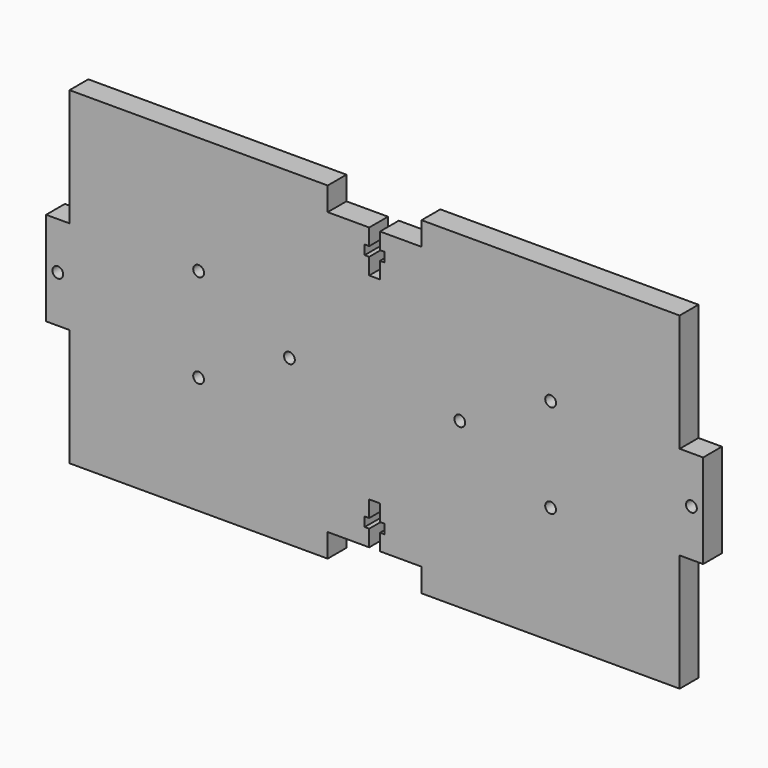
from build123d import *

# Parameters (mm, degrees)
F0_R     = 1.4605
F1_DEPTH = 6.35


with BuildPart() as f1:
    # F0 (on Front) → F1 (new body)
    with BuildSketch(Plane.XZ):
        Polygon((82.55, 12.7), (82.55, 44.45), (12.7, 44.45), (12.7, 38.1), (1.4605, 38.1), (1.4605, 33.655), (2.69367, 33.655), (2.69367, 31.115), (1.4605, 31.115), (1.4605, 26.67), (-1.4605, 26.67), (-1.4605, 31.115), (-2.69367, 31.115), (-2.69367, 33.655), (-1.4605, 33.655), (-1.4605, 38.1), (-12.7, 38.1), (-12.7, 44.45), (-82.55, 44.45), (-82.55, 12.7), (-88.9, 12.7), (-88.9, -12.7), (-82.55, -12.7), (-82.55, -44.45), (-12.7, -44.45), (-12.7, -38.1), (-1.4605, -38.1), (-1.4605, -33.655), (-2.69367, -33.655), (-2.69367, -31.115), (-1.4605, -31.115), (-1.4605, -26.67), (1.4605, -26.67), (1.4605, -31.115), (2.69367, -31.115), (2.69367, -33.655), (1.4605, -33.655), (1.4605, -38.1), (12.7, -38.1), (12.7, -44.45), (82.55, -44.45), (82.55, -12.7), (88.9, -12.7), (88.9, 12.7), align=None)
        with Locations((-47.625, -12.7)):
            Circle(F0_R, mode=Mode.SUBTRACT)
        with Locations((47.625, -12.7)):
            Circle(F0_R, mode=Mode.SUBTRACT)
        with Locations((-85.725, 0)):
            Circle(F0_R, mode=Mode.SUBTRACT)
        with Locations((-47.625, 12.7)):
            Circle(F0_R, mode=Mode.SUBTRACT)
        with Locations((-23.0505, 0)):
            Circle(F0_R, mode=Mode.SUBTRACT)
        with Locations((23.0505, 0)):
            Circle(F0_R, mode=Mode.SUBTRACT)
        with Locations((85.725, 0)):
            Circle(F0_R, mode=Mode.SUBTRACT)
        with Locations((47.625, 12.7)):
            Circle(F0_R, mode=Mode.SUBTRACT)
    extrude(amount=F1_DEPTH)


solid = f1.part
